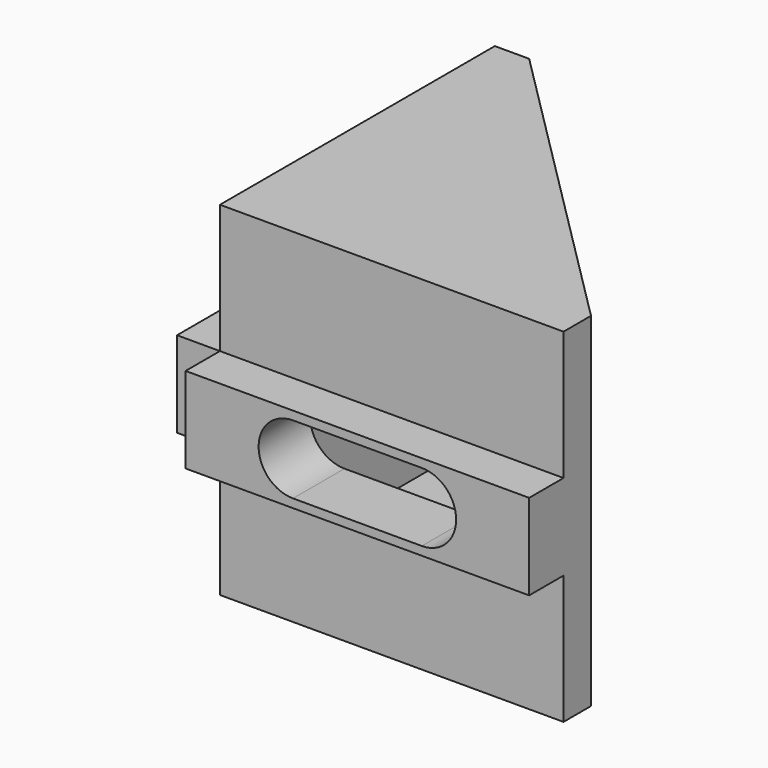
from build123d import *

# Parameters (mm, degrees)
F1_DEPTH  = 40
F2_T      = -2.5
F3_W      = 40
F3_H      = 10
F4_DEPTH  = 5
F5_W      = 40
F5_H      = 10
F6_DEPTH  = 5
F8_DEPTH  = 45.001
F10_DEPTH = 45.001


with BuildPart() as f1:
    # F0 (on Top) → F1 (new body)
    with BuildSketch(Plane.XY):
        Polygon((4, 40), (0, 40), (0, 0), (40, 0), (40, 4), align=None)
    extrude(amount=F1_DEPTH)

    # F2
    f2_openings = [f1.faces().sort_by_distance(p)[0] for p in [
        (22, 22, 20),
    ]]
    offset(amount=F2_T, openings=f2_openings)

    # F3 (on face) → F4 (join)
    with BuildSketch(Plane(origin=(0, 0, 0), x_dir=(0, -1, 0), z_dir=(-1, 0, 0))):
        with Locations((-20, 20)):
            Rectangle(F3_W, F3_H)
    extrude(amount=F4_DEPTH)

    # F5 (on face) → F6 (join)
    with BuildSketch(Plane.XZ):
        with Locations((20, 20)):
            Rectangle(F5_W, F5_H)
    extrude(amount=F6_DEPTH)

    # F7 (on face) → F8 (cut, through all)
    with BuildSketch(Plane.XZ.offset(5)):
        with BuildLine():
            Line((27.5, 24), (12.5, 24))
            ThreePointArc((12.5, 24), (8.5, 20), (12.5, 16))
            Line((12.5, 16), (27.5, 16))
            ThreePointArc((27.5, 16), (31.5, 20), (27.5, 24))
        make_face()
    extrude(amount=-F8_DEPTH, mode=Mode.SUBTRACT)

    # F9 (on face) → F10 (cut, through all)
    with BuildSketch(Plane(origin=(-5, 0, 0), x_dir=(0, -1, 0), z_dir=(-1, 0, 0))):
        with BuildLine():
            ThreePointArc((-27.5, 24), (-31.5, 20), (-27.5, 16))
            Line((-27.5, 16), (-12.5, 16))
            ThreePointArc((-12.5, 16), (-8.5, 20), (-12.5, 24))
            Line((-12.5, 24), (-27.5, 24))
        make_face()
    extrude(amount=-F10_DEPTH, mode=Mode.SUBTRACT)


solid = f1.part
